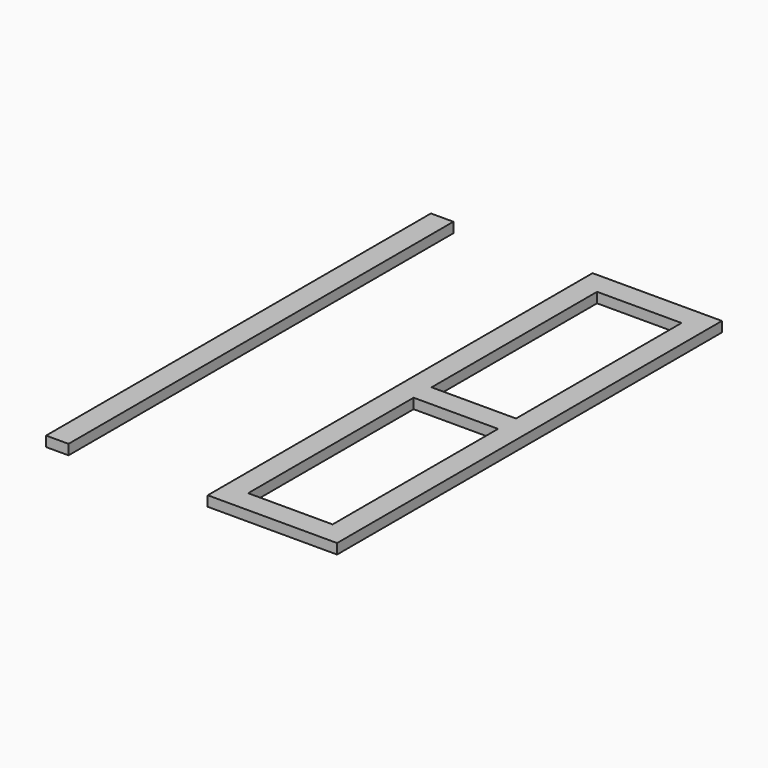
from build123d import *

# Parameters (mm, degrees)
F0_W     = 158
F0_H     = 42
F1_DEPTH = 19
F2_W     = 42
F2_H     = 900
F3_DEPTH = 19


with BuildPart() as f1:
    # F0 (on Top) → F1 (new body)
    with BuildSketch(Plane.XY):
        Polygon((172.878919, 408), (172.878919, 21), (172.878919, 0), (214.878919, 0), (214.878919, 450), (172.878919, 450), align=None)
        Polygon((14.878919, 0), (14.878919, 21), (14.878919, 408), (14.878919, 450), (-27.121081, 450), (-27.121081, 0), align=None)
        Polygon((214.878919, 0), (172.878919, 0), (172.878919, -21), (172.878919, -408), (172.878919, -450), (214.878919, -450), align=None)
        with Locations((93.878919, 429)):
            Rectangle(F0_W, F0_H)
        Polygon((14.878919, -21), (14.878919, 0), (-27.121081, 0), (-27.121081, -450), (14.878919, -450), (14.878919, -408), align=None)
        with Locations((93.878919, -429)):
            Rectangle(F0_W, F0_H)
        Polygon((172.878919, 0), (172.878919, 21), (14.878919, 21), (14.878919, 0), (14.878919, -21), (172.878919, -21), align=None)
    extrude(amount=F1_DEPTH)


with BuildPart() as f3:
    # F2 (on Top) → F3 (new body)
    with BuildSketch(Plane.XY):
        with Locations((-308.554617, 0)):
            Rectangle(F2_W, F2_H)
    extrude(amount=F3_DEPTH)


solid = Compound([f1.part, f3.part])
